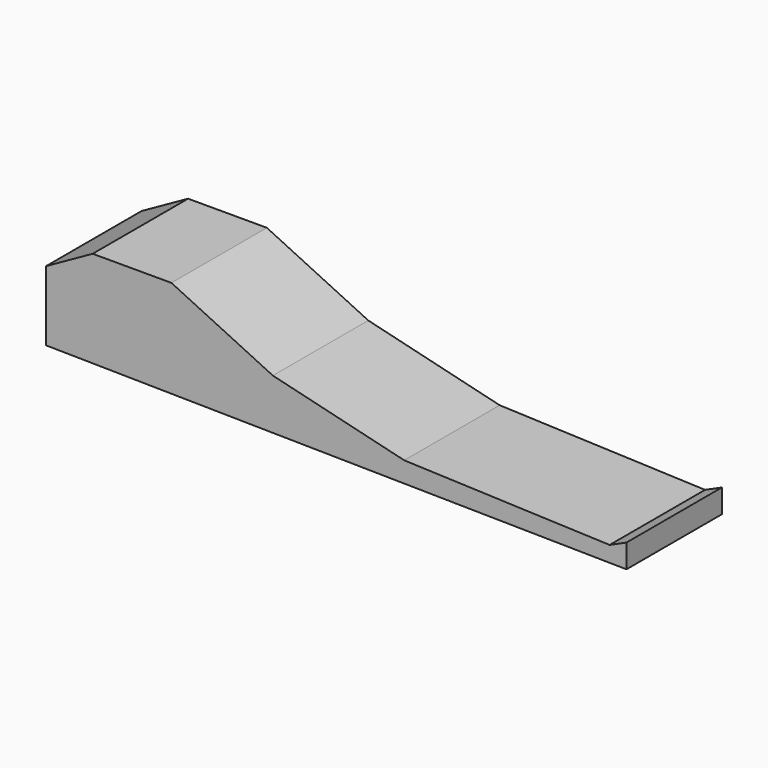
from build123d import *

# Parameters (mm, degrees)
F1_DEPTH = 50.8
F2_R     = 11.859009
F4_DEPTH = 50.8
F5_DEPTH = 76.2


with BuildPart() as f1:
    # F0 (on Front) → F1 (new body)
    with BuildSketch(Plane.XZ):
        Polygon((0, 63.13429), (0, 0), (304.8, 0), (304.8, 17.081553), align=None)
    extrude(amount=F1_DEPTH)

    # F2 (on face) → F4 (cut)
    with BuildSketch(Plane(origin=(0, 0, 0), x_dir=(0, -1, 0), z_dir=(-1, 0, 0))):
        with Locations((25.4, 25.630444)):
            Circle(F2_R)
    extrude(amount=-F4_DEPTH, mode=Mode.SUBTRACT)

    # F3 (on face) → F5 (cut)
    with BuildSketch(Plane.XZ.offset(50.8)):
        Polygon((0, 63.13429), (0, 40.274497), (19.827113, 51.353723), (53.36424, 51.353723), (96.555851, 30.648993), (152.476817, 17.081553), (239.942938, 13.801008), (247.112304, 17.027218), (247.112304, 6.990121), (0, 10.574799), (0, 0), (304.8, 0), (304.8, 17.081553), align=None)
    extrude(amount=-F5_DEPTH, mode=Mode.SUBTRACT)


solid = f1.part
